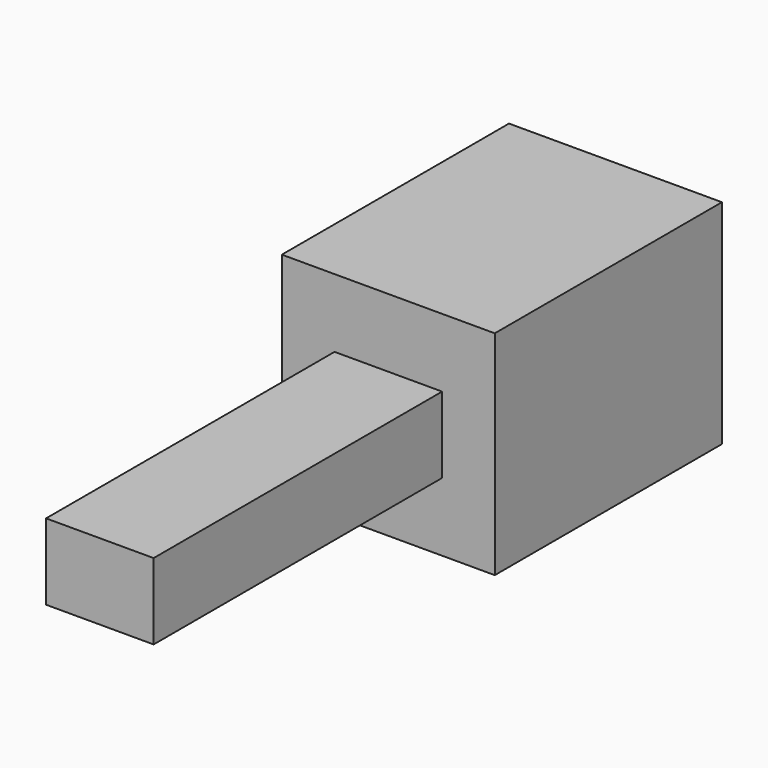
from build123d import *

# Parameters (mm, degrees)
F0_W     = 15
F0_H     = 15
F1_DEPTH = 10
F2_W     = 7.576056
F2_H     = 5.357298
F3_DEPTH = 25.4


with BuildPart() as f1:
    # F0 (on Front) → F1 (new body, symmetric)
    with BuildSketch(Plane.XZ):
        Rectangle(F0_W, F0_H)
    extrude(amount=F1_DEPTH, both=True)

    # F2 (on face) → F3 (join)
    with BuildSketch(Plane.XZ.offset(10)):
        Rectangle(F2_W, F2_H)
    extrude(amount=F3_DEPTH)


solid = f1.part
